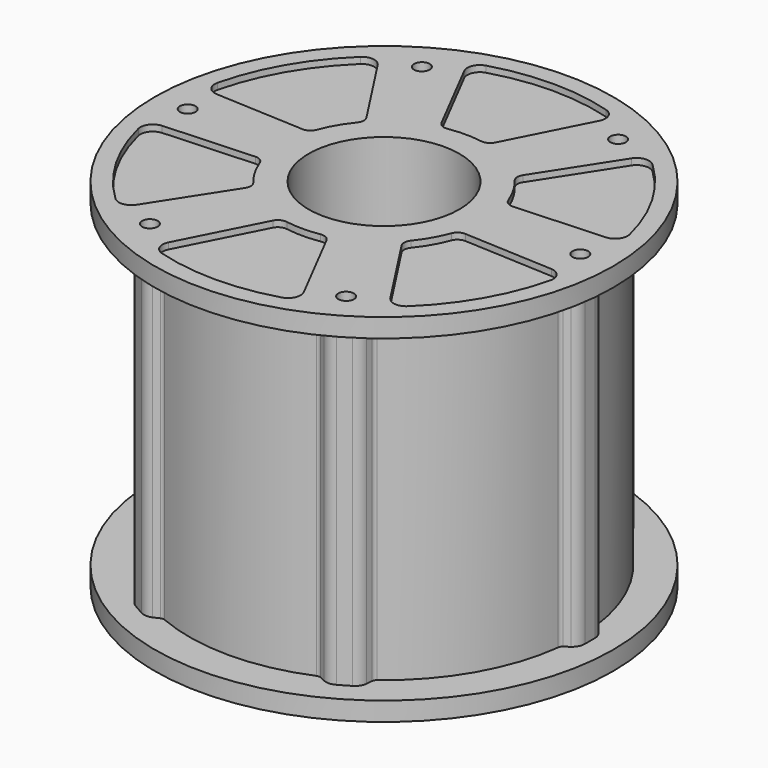
from build123d import *

# Parameters (mm, degrees)
PAD_DEPTH          = 56
SKETCH006_R        = 1.25
POCKET_DEPTH       = 236.830052
POCKET_DEPTH_BACK  = 294.830052
POCKET001_DEPTH    = 237.830052
POLARPATTERN_COUNT = 6


with BuildPart() as part:
    # Sketch001 → Revolution002 (revolve)
    with BuildSketch(Plane.XZ):
        with BuildLine():
            Line((12, 0), (12, 58))
            Line((12, 58), (36.5, 58))
            Line((36.5, 55), (36.5, 58))
            Line((31, 55), (36.5, 55))
            Line((31, 4.25), (31, 55))
            Line((36.5, 4.25), (31, 4.25))
            Line((36.5, 1.25), (36.5, 4.25))
            Line((36.5, 1.25), (17, 1.25))
            Line((17, 1.25), (17, 0.5))
            ThreePointArc((16.5, 0), (16.853553, 0.146447), (17, 0.5))
            Line((16.5, 0), (12, 0))
        make_face()
    revolve(axis=Axis((0, 0, 0), (0, 0, 1)))

    # Sketch004 → Pad (new body)
    with BuildSketch(Plane.XY.offset(58)):
        with BuildLine():
            ThreePointArc((30.765894, -3.802601), (31, 0), (30.765894, 3.802601))
            ThreePointArc((30.765894, 3.802601), (30.872245, 3.491837), (31.094507, 3.25))
            Line((31.907923, 2.668318), (31.094507, 3.25))
            ThreePointArc((32.765894, 1), (32.538832, 1.938003), (31.907923, 2.668318))
            Line((32.765894, 1), (32.765894, -1))
            ThreePointArc((31.907923, -2.668318), (32.538832, -1.938003), (32.765894, -1))
            Line((31.907923, -2.668318), (31.094507, -3.25))
            ThreePointArc((31.094507, -3.25), (30.872245, -3.491837), (30.765894, -3.802601))
        make_face()
    pad = extrude(amount=-PAD_DEPTH)

    # Sketch006 → Pocket (cut, two sides)
    with BuildSketch(Plane.XY) as pocket_sk:
        with Locations((31.25, 0)):
            Circle(SKETCH006_R)
    pocket = extrude(amount=-POCKET_DEPTH, mode=Mode.SUBTRACT) + extrude(pocket_sk.sketch, amount=POCKET_DEPTH_BACK, mode=Mode.SUBTRACT)

    # Sketch007 → Pocket001 (cut, through all)
    with BuildSketch(Plane.XY.offset(57)):
        with BuildLine():
            ThreePointArc((15.210029, 5.719923), (14.056331, 8.153652), (12.516493, 10.363393))
            ThreePointArc((12.41083, 12.132293), (12.17453, 11.230572), (12.516493, 10.363393))
            Line((20.118158, 24.097608), (12.41083, 12.132293))
            ThreePointArc((23.174899, 24.466591), (21.559851, 25.000154), (20.118158, 24.097608))
            ThreePointArc((32.743937, 7.970232), (29.150669, 16.90942), (23.174899, 24.466591))
            ThreePointArc((30.906067, 5.5), (32.405281, 6.303385), (32.743937, 7.970232))
            Line((16.693075, 4.75), (30.906067, 5.5))
            ThreePointArc((15.210029, 5.719923), (15.793016, 4.992554), (16.693075, 4.75))
        make_face()
    pocket001 = extrude(amount=POCKET001_DEPTH, mode=Mode.SUBTRACT)

    # PolarPattern: Pad, Pocket, Pocket001 ×6 about axis
    polarpattern_axis = Axis((0, 0, 58), (0, 0, 1))
    for i in range(1, POLARPATTERN_COUNT):
        add(pad.rotate(polarpattern_axis, i * 360 / POLARPATTERN_COUNT))
        add(pocket.rotate(polarpattern_axis, i * 360 / POLARPATTERN_COUNT), mode=Mode.SUBTRACT)
        add(pocket001.rotate(polarpattern_axis, i * 360 / POLARPATTERN_COUNT), mode=Mode.SUBTRACT)


solid = part.part
